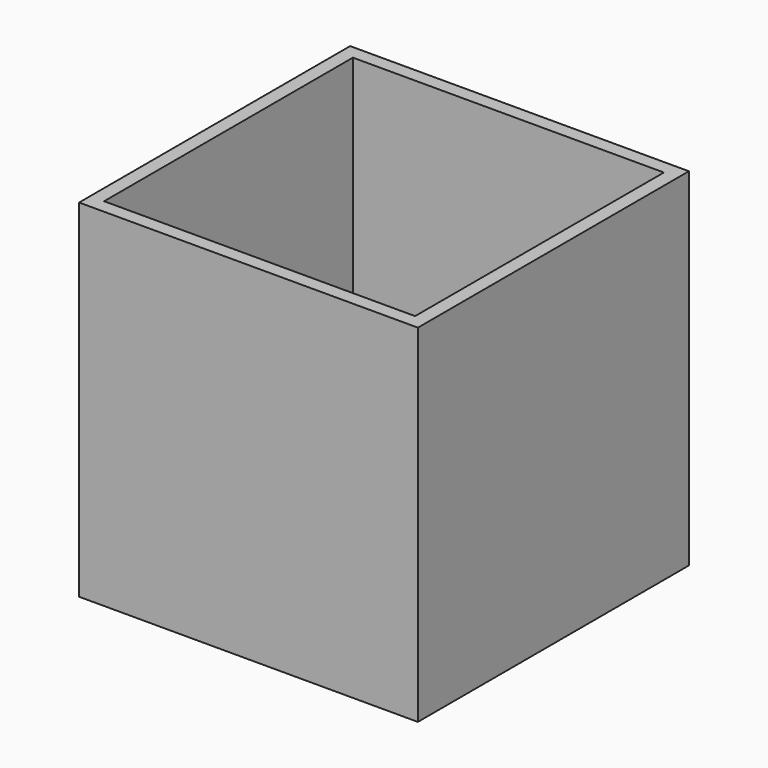
from build123d import *

# Parameters (mm, degrees)
F1_DEPTH = 12.5


with BuildPart() as f1:
    # F0 (on Top) → F1 (new body, symmetric)
    with BuildSketch(Plane.XY):
        Polygon((0.01, 12.2), (-12.2, 12.2), (-12.2, -12.2), (12.2, -12.2), (12.2, -0.1), (12.2, 12.2), align=None)
        Polygon((11.2, -11.2), (-11.2, -11.2), (-11.2, 11.2), (0, 11.2), (11.2, 11.2), (11.2, 0), align=None, mode=Mode.SUBTRACT)
    extrude(amount=F1_DEPTH, both=True)


solid = f1.part
